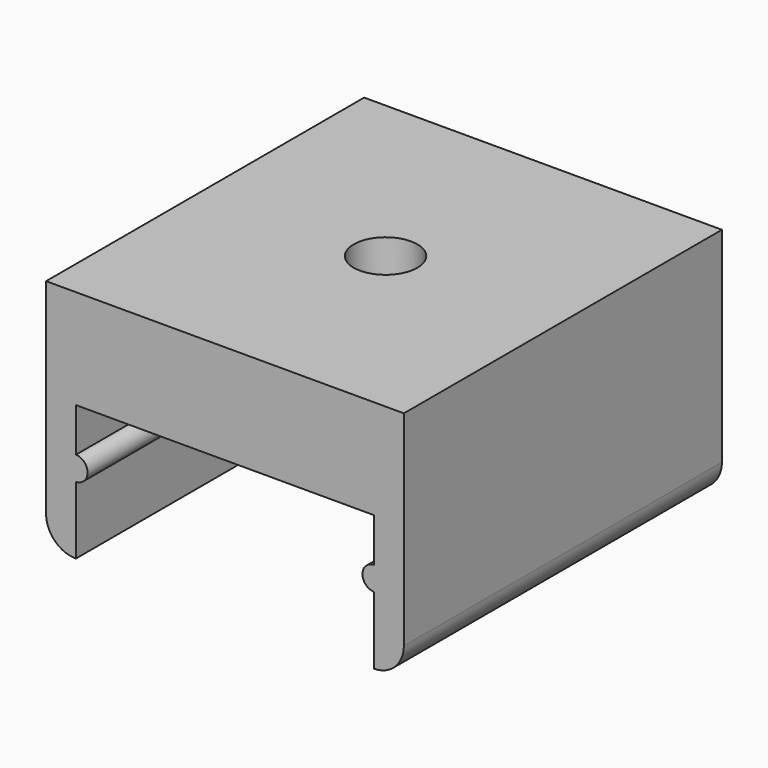
from build123d import *

# Parameters (mm, degrees)
F1_DEPTH       = 20
F3_D           = 3.2
F3_CSINK_D     = 5.5
F3_CSINK_ANGLE = 90
F4_DEPTH       = 20


with BuildPart() as f1:
    # F0 (on Front) → F1 (new body)
    with BuildSketch(Plane.XZ):
        with BuildLine():
            Line((14.4104288965, 5.1363992399), (-3.5895711035, 5.1363992399))
            Line((-3.5895711035, 5.1363992399), (-3.5895711035, 0.1363992399))
            Line((-3.5895711035, 0.1363992399), (-3.5895711035, -5.1626007601))
            ThreePointArc((-3.5895711035, -5.1626007601), (-3.1502312752, -6.2232609319), (-2.0895711035, -6.6626007601))
            Line((-2.0895711035, -6.6626007601), (-2.0895711035, -3.2634044741))
            Line((-2.0895711035, -3.2634044741), (-2.0895711035, -2.0636007601))
            Line((-2.0895711035, -2.0636007601), (-2.0895711035, 0.1363992399))
            Line((-2.0895711035, 0.1363992399), (5.4104288965, 0.1363992399))
            Line((5.4104288965, 0.1363992399), (12.9104288965, 0.1363992399))
            Line((12.9104288965, 0.1363992399), (12.9104288965, -2.0636007601))
            Line((12.9104288965, -2.0636007601), (12.9104288965, -3.2631007601))
            Line((12.9104288965, -3.2631007601), (12.9104288965, -6.6626007601))
            ThreePointArc((12.9104288965, -6.6626007601), (13.9710890683, -6.2232609319), (14.4104288965, -5.1626007601))
            Line((14.4104288965, -5.1626007601), (14.4104288965, -0.620780386))
            Line((14.4104288965, -0.620780386), (14.4104288965, 0.1363992399))
            Line((14.4104288965, 0.1363992399), (14.4104288965, 5.1363992399))
        make_face()
    extrude(amount=F1_DEPTH)

    # F3 (through all)
    with Locations(Plane(origin=(0, 0, 0), x_dir=(1, 0, 0), z_dir=(0, 0, -1))):
        with Locations((5.4901805706, 10)):
            CounterSinkHole(F3_D / 2, F3_CSINK_D / 2, counter_sink_angle=F3_CSINK_ANGLE)

    # F0 (on Front) → F4 (join)
    with BuildSketch(Plane.XZ):
        with BuildLine():
            Line((-2.0895711035, -2.0636007601), (-2.0895711035, -3.2634044741))
            ThreePointArc((-2.0895711035, -3.2634044741), (-1.5004229232, -2.6635026171), (-2.0895711035, -2.0636007601))
        make_face()
        with BuildLine():
            ThreePointArc((12.9104288965, -2.0636007601), (12.3277476003, -2.6633507601), (12.9104288965, -3.2631007601))
            Line((12.9104288965, -3.2631007601), (12.9104288965, -2.0636007601))
        make_face()
    extrude(amount=F4_DEPTH)


solid = f1.part
